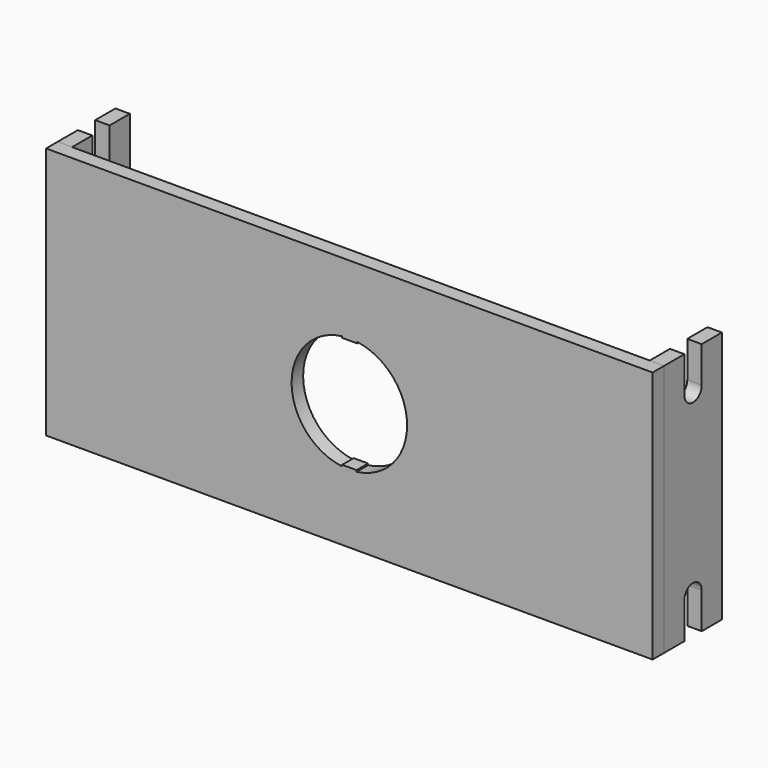
from build123d import *

# Parameters (mm, degrees)
F0_W     = 84
F0_H     = 35
F1_DEPTH = 2
F3_DEPTH = 2
F5_DEPTH = 2


with BuildPart() as f1:
    # F0 (on Front) → F1 (new body)
    with BuildSketch(Plane.XZ):
        Rectangle(F0_W, F0_H)
        with BuildLine():
            ThreePointArc((-1, -7.937254), (-8, 0), (-1, 7.937254))
            Line((-1, 7.937254), (-1, 7.737254))
            Line((-1, 7.737254), (1.066667, 7.737254))
            Line((1.066667, 7.737254), (1.066667, 7.92857))
            ThreePointArc((1.066667, 7.92857), (7.999929, -0.033615), (1, -7.937254))
            Line((1, -7.937254), (1, -7.737254))
            Line((1, -7.737254), (-1, -7.737254))
            Line((-1, -7.737254), (-1, -7.937254))
        make_face(mode=Mode.SUBTRACT)
    extrude(amount=F1_DEPTH)


with BuildPart() as f3:
    # F2 (on face) → F3 (new body)
    with BuildSketch(Plane.YZ.offset(42)):
        with BuildLine():
            Line((3.500194, 17.5), (0, 17.5))
            Line((0, 17.5), (0, -17.5))
            Line((0, -17.5), (3.500194, -17.5))
            Line((3.500194, -17.5), (3.500194, -12.524109))
            ThreePointArc((3.500194, -12.524109), (4.987945, -11.000048), (6.5, -12.5))
            Line((6.5, -12.5), (6.5, -17.5))
            Line((6.5, -17.5), (10, -17.5))
            Line((10, -17.5), (10, 17.5))
            Line((10, 17.5), (6.5, 17.5))
            Line((6.5, 17.5), (6.5, 12.5))
            ThreePointArc((6.5, 12.5), (4.987945, 11.000048), (3.500194, 12.524109))
            Line((3.500194, 12.524109), (3.500194, 17.5))
        make_face()
    extrude(amount=-F3_DEPTH)


with BuildPart() as f5:
    # F4 (on face) → F5 (new body)
    with BuildSketch(Plane(origin=(-42, 0, 0), x_dir=(0, -1, 0), z_dir=(-1, 0, 0))):
        with BuildLine():
            Line((-6.5, 17.5), (-10, 17.5))
            Line((-10, 17.5), (-10, -17.5))
            Line((-10, -17.5), (-6.5, -17.5))
            Line((-6.5, -17.5), (-6.5, -12.5))
            ThreePointArc((-6.5, -12.5), (-4.999641, -11), (-3.5, -12.500718))
            Line((-3.5, -12.500718), (-3.5, -17.5))
            Line((-3.5, -17.5), (0, -17.5))
            Line((0, -17.5), (0, 17.5))
            Line((0, 17.5), (-3.5, 17.5))
            Line((-3.5, 17.5), (-3.5, 12.500718))
            ThreePointArc((-3.5, 12.500718), (-4.999641, 11), (-6.5, 12.5))
            Line((-6.5, 12.5), (-6.5, 17.5))
        make_face()
    extrude(amount=-F5_DEPTH)


solid = Compound([f1.part, f3.part, f5.part])
